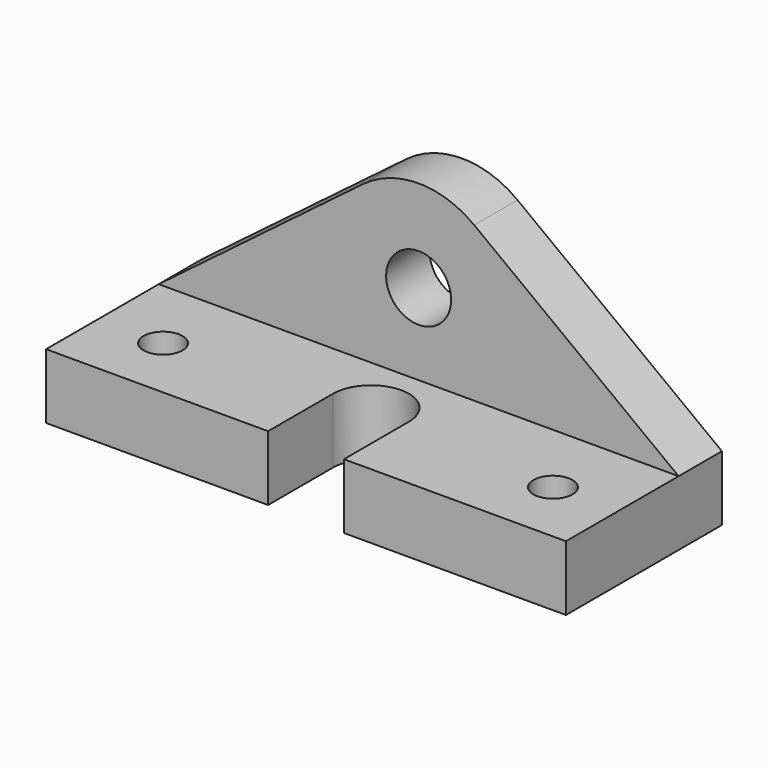
from build123d import *

# Parameters (mm, degrees)
F1_DEPTH = 12
F2_R     = 3.6
F3_DEPTH = 12.001
F4_W     = 96
F4_H     = 10
F5_DEPTH = 32
F6_R     = 6
F7_DEPTH = 10.001
F9_DEPTH = 25


with BuildPart() as f1:
    # F0 (on Top) → F1 (new body)
    with BuildSketch(Plane.XY):
        with BuildLine():
            Line((7, -18), (48, -18))
            Line((48, -18), (48, 18))
            Line((48, 18), (-48, 18))
            Line((-48, 18), (-48, -18))
            Line((-48, -18), (-7, -18))
            Line((-7, -18), (-7, -3))
            ThreePointArc((-7, -3), (0, 4), (7, -3))
            Line((7, -3), (7, -18))
        make_face()
    extrude(amount=F1_DEPTH)

    # F2 (on face) → F3 (cut, through all)
    with BuildSketch(Plane.XY.offset(12)):
        with Locations((36, -6)):
            Circle(F2_R)
        with Locations((-36, -6)):
            Circle(F2_R)
    extrude(amount=-F3_DEPTH, mode=Mode.SUBTRACT)

    # F4 (on face) → F5 (join)
    with BuildSketch(Plane.XY.offset(12)):
        with Locations((0, 13)):
            Rectangle(F4_W, F4_H)
    extrude(amount=F5_DEPTH)

    # F6 (on face) → F7 (cut, through all)
    with BuildSketch(Plane.XZ.offset(-8)):
        with Locations((0, 27)):
            Circle(F6_R)
    extrude(amount=-F7_DEPTH, mode=Mode.SUBTRACT)

    # F8 (on face) → F9 (cut)
    with BuildSketch(Plane.XZ.offset(-8)):
        with BuildLine():
            ThreePointArc((-10.257336, 40.556809), (0, 44), (10.257336, 40.556809))
            Line((10.257336, 40.556809), (48, 12))
            Line((48, 12), (48, 44.921719))
            Line((48, 44.921719), (-48, 44.921719))
            Line((-48, 44.921719), (-48, 12))
            Line((-48, 12), (-10.257336, 40.556809))
        make_face()
        with BuildLine():
            ThreePointArc((-10.257336, 40.556809), (0, 44), (10.257336, 40.556809))
            Line((10.257336, 40.556809), (48, 12))
            Line((48, 12), (48, 44.921719))
            Line((48, 44.921719), (-48, 44.921719))
            Line((-48, 44.921719), (-48, 12))
            Line((-48, 12), (-10.257336, 40.556809))
        make_face()
    extrude(amount=-F9_DEPTH, mode=Mode.SUBTRACT)


solid = f1.part
